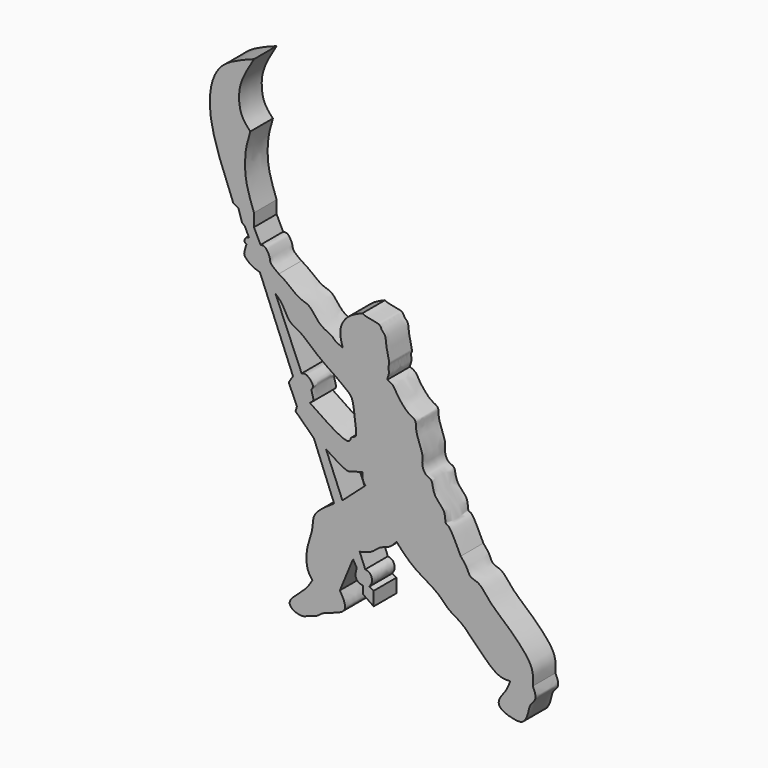
from build123d import *

# Parameters (mm, degrees)
F1_DEPTH = 5


with BuildPart() as f1:
    # F0 (on Front) → F1 (new body)
    with BuildSketch(Plane.XZ):
        with BuildLine():
            Line((-24.1203103215, 21.9759829342), (-18.2807520032, 7.7274609357))
            Line((-18.2807520032, 7.7274609357), (-19.0381482244, 6.5127937123))
            Line((-19.0381482244, 6.5127937123), (-17.5798162818, 3.2489048317))
            Line((-17.5798162818, 3.2489048317), (-17.8294554353, 2.4170875549))
            Line((-17.8294554353, 2.4170875549), (-14.5885488018, -0.7256102399))
            Line((-14.5885488018, -0.7256102399), (-11.0132619739, -9.7218751907))
            add(Edge.make_bspline(
                [(-14.8673709482, -22.9064188898), (-15.150503075, -22.5427997144), (-15.8470702017, -21.6482167965), (-16.0944275733, -18.3729851975), (-14.611248973, -14.9338812026), (-14.965218938, -12.3460222686), (-12.4732507013, -10.6913253107), (-11.0132619739, -9.7218751907)],
                knots=[0, 0, 0, 0, 0.1422585094, 0.3499871324, 0.5760143286, 0.7515962316, 1, 1, 1, 1], degree=3))
            add(Edge.make_bspline(
                [(-9.9995490164, -22.9064188898), (-9.7311698044, -23.3544053065), (-9.2008802496, -24.2395801149), (-8.721652925, -26.3078463525), (-13.0513683166, -27.1215222713), (-13.8873228264, -28.2920015259), (-15.5244092029, -28.5579918803), (-16.5965096871, -29.3062341732), (-18.7291618658, -28.5971203006), (-19.1531356958, -27.1279524612), (-16.074988322, -24.9749843607), (-15.2466632037, -23.5561204262), (-14.8673709482, -22.9064188898)],
                knots=[0, 0, 0, 0, 0.0909012889, 0.1796115417, 0.3202441767, 0.4076140482, 0.4950865817, 0.5769096526, 0.6780741152, 0.7527527486, 0.8867848317, 1, 1, 1, 1], degree=3))
            Line((-9.9995490164, -22.9064188898), (-7.67316157, -17.2814186662))
            Line((-7.67316157, -17.2814186662), (-7.0134392008, -18.4272509068))
            add(Edge.make_bspline(
                [(-5.8844918385, -20.8578072488), (-6.2221164567, -20.7778068892), (-6.8772443457, -20.6225739355), (-7.3697973958, -19.7279994004), (-7.140388356, -18.8906299585), (-7.0134392008, -18.4272509068)],
                knots=[0, 0, 0, 0, 0.322001538, 0.6248128143, 1, 1, 1, 1], degree=3))
            Line((-5.8844918385, -20.8578072488), (-5.8844918385, -22.1791490912))
            Line((-5.8844918385, -22.1791490912), (-4.0263566189, -23.4591979533))
            Line((-4.0263566189, -23.4591979533), (-4.0263566189, -21.0229754448))
            Line((-4.0263566189, -21.0229754448), (-4.7696107067, -20.6100549549))
            add(Edge.make_bspline(
                [(-5.5128643289, -18.1738324463), (-5.2118365762, -18.2470956076), (-4.5736425311, -18.402417211), (-4.1320337416, -19.673755952), (-4.5585525415, -20.3001103357), (-4.7696107067, -20.6100549549)],
                knots=[0, 0, 0, 0, 0.3108278188, 0.6589706806, 1, 1, 1, 1], degree=3))
            Line((-5.5128643289, -18.1738324463), (-6.5038711764, -15.7376099378))
            add(Edge.make_bspline(
                [(0, -12.0722856373), (-0.3762851457, -12.527865535), (-1.1324026488, -13.443320048), (-2.9946780198, -13.7360672192), (-4.2626082372, -15.2470570007), (-5.7328675082, -15.5688577101), (-6.5038711764, -15.7376099378)],
                knots=[0, 0, 0, 0, 0.2384306792, 0.4791090266, 0.7268448775, 1, 1, 1, 1], degree=3))
            add(Edge.make_bspline(
                [(20.0911592692, -27.2437538952), (19.321275811, -27.2753298207), (17.2032302757, -27.3621991351), (11.9948695923, -20.8569828754), (9.316423189, -19.978629408), (7.2826347876, -17.361768118), (3.0825776353, -15.4291307313), (1.0274658835, -13.191168669), (0, -12.0722856373)],
                knots=[0, 0, 0, 0, 0.1325583198, 0.3646844914, 0.504303567, 0.6475314744, 0.8237811716, 1, 1, 1, 1], degree=3))
            add(Edge.make_bspline(
                [(24.1043716669, -26.7054680735), (24.3944195035, -27.3526209354), (24.9444184739, -28.57977509), (23.4922734831, -29.7152754997), (23.3899425635, -30.9353527133), (22.6751313312, -32.9007931078), (21.2165503707, -33.1401768255), (18.1568122428, -32.2974393289), (17.9119695724, -30.6381992508), (19.455324375, -29.018187808), (19.8830334531, -27.8245737111), (20.0911592692, -27.2437538952)],
                knots=[0, 0, 0, 0, 0.1147391171, 0.2175723736, 0.3114734744, 0.4260252646, 0.523894325, 0.6676526347, 0.7622338018, 0.8843015345, 1, 1, 1, 1], degree=3))
            add(Edge.make_bspline(
                [(11.3523667678, -10.6432521716), (11.7514697639, -11.1046119855), (12.4997618891, -11.9696315896), (12.9218293624, -13.4925658453), (14.6996652539, -13.5900277659), (16.3053745662, -15.9529726334), (18.4397537053, -17.7958028806), (24.370816881, -23.0379418617), (24.1806903996, -25.6549671158), (24.1043716669, -26.7054680735)],
                knots=[0, 0, 0, 0, 0.1143584279, 0.2144146044, 0.3191821603, 0.4565158707, 0.6079616273, 0.8426317494, 1, 1, 1, 1], degree=3))
            add(Edge.make_bspline(
                [(-1.6017466551, 12.5935450196), (-1.2456084574, 12.4368040179), (-0.5314168268, 12.1224790947), (-0.0136702876, 11.0243846739), (0.7944326824, 9.8989854866), (2.0839663571, 8.4618082396), (3.5516730938, 7.9934188466), (3.2929209655, 6.5940518744), (4.1775071465, 4.0367650179), (4.6996992608, 2.9047768523), (4.409158131, 1.4459573258), (5.0917023531, -0.1952574089), (6.4735282194, -0.2941124951), (6.3372274844, -2.7945419428), (8.7814949075, -4.3909266859), (8.5422814117, -6.3269932907), (8.9481099601, -6.5955661599), (9.4429596132, -6.6294544001), (10.5118738661, -8.8764375203), (11.3523667678, -10.6432521716)],
                knots=[0, 0, 0, 0, 0.0509372669, 0.1021484636, 0.1592469829, 0.2263722025, 0.2807239402, 0.3334866348, 0.4124220464, 0.4661579368, 0.523405589, 0.5839663177, 0.6326570464, 0.7013792386, 0.7812432877, 0.8428316308, 0.8711099039, 0.8986530392, 1, 1, 1, 1], degree=3))
            add(Edge.make_bspline(
                [(-6.0174730606, 21.505381912), (-5.921444452, 21.4471480873), (-5.6920542665, 21.3080409188), (-5.0728437511, 21.1257552601), (-3.4567198189, 20.847595573), (-2.9658363095, 20.7219279285), (-2.6881267228, 20.2613657998), (-2.6693372569, 20.0771813711), (-2.2577028465, 19.6607437685), (-1.8746838477, 19.2204714186), (-1.8260287535, 17.9007256306), (-1.6928445131, 17.3903408715), (-1.2787171843, 15.49115093), (-1.2525755879, 14.9911130424), (-1.5307336501, 14.7025467937), (-1.1859828189, 13.7227253988), (-1.6086289503, 12.8698182678), (-1.6034944026, 12.663704156), (-1.6017466551, 12.5935450196)],
                knots=[0, 0, 0, 0, 0.0452787625, 0.1081605147, 0.2066664544, 0.2621788489, 0.3144051851, 0.3476208609, 0.4034976597, 0.4638101359, 0.5482376432, 0.6103455676, 0.7161284825, 0.7694690602, 0.8120141734, 0.8879041048, 0.9618437034, 1, 1, 1, 1], degree=3))
            add(Edge.make_bspline(
                [(-9.4929598272, 14.9880722165), (-9.6039744984, 15.368405825), (-9.8487533593, 16.2070123475), (-10.0595668465, 18.0840131598), (-8.7334216813, 20.3505181606), (-6.9509660602, 21.1084461161), (-6.0174730606, 21.505381912)],
                knots=[0, 0, 0, 0, 0.1945809773, 0.4290361755, 0.7009795212, 1, 1, 1, 1], degree=3))
            add(Edge.make_bspline(
                [(-20.783405751, 22.8254627436), (-20.3795782717, 22.5942336502), (-19.4210097379, 22.0453632923), (-17.1330480401, 19.9825899517), (-15.2341225973, 19.8981284661), (-13.6911194673, 17.0150264), (-11.3267169786, 16.3534703795), (-11.0392157787, 15.6864972266), (-10.0849771891, 15.2554792596), (-9.4929598272, 14.9880722165)],
                knots=[0, 0, 0, 0, 0.1301614159, 0.3089651992, 0.4467185212, 0.6283052914, 0.7837589095, 0.8658422733, 1, 1, 1, 1], degree=3))
            add(Edge.make_bspline(
                [(-24.0173917264, 26.2967646122), (-23.8165610801, 26.3188140679), (-23.4070619719, 26.3637735033), (-22.8808236782, 25.9648114967), (-22.3110527481, 24.7626240677), (-22.3622165111, 24.1445716194), (-21.7336204047, 23.5040464564), (-21.1206772524, 23.0663208979), (-20.783405751, 22.8254627436)],
                knots=[0, 0, 0, 0, 0.1392290077, 0.2838917045, 0.4923127741, 0.6337603105, 0.7984768906, 1, 1, 1, 1], degree=3))
            Line((-24.0173917264, 26.2967646122), (-25.177501142, 28.653787449))
            Line((-25.177501142, 28.653787449), (-25.177501142, 30.9126004577))
            add(Edge.make_bspline(
                [(-25.8315913379, 43.334569782), (-26.1297475665, 42.3404668476), (-26.7783317439, 40.1779782861), (-26.8927100798, 35.5948351284), (-25.7602045722, 32.5032837521), (-25.177501142, 30.9126004577)],
                knots=[0, 0, 0, 0, 0.2923150441, 0.6358777519, 1, 1, 1, 1], degree=3))
            add(Edge.make_bspline(
                [(-25.177501142, 54.803494364), (-25.9943046327, 53.4528538991), (-27.4662578836, 51.0188784744), (-27.9661528337, 48.1558449824), (-27.5247460752, 45.155678778), (-26.380214446, 43.9246531663), (-25.8315913379, 43.334569782)],
                knots=[0, 0, 0, 0, 0.2991661188, 0.5391242154, 0.7790824658, 1, 1, 1, 1], degree=3))
            add(Edge.make_bspline(
                [(-28.8502722979, 31.2726534903), (-30.3089187129, 34.8864062688), (-32.8574432709, 41.2002994836), (-33.2169781008, 47.5098640935), (-31.3421809454, 52.5154550165), (-27.3337143695, 54.0032093754), (-25.177501142, 54.803494364)],
                knots=[0, 0, 0, 0, 0.315569116, 0.5513575008, 0.7586685899, 1, 1, 1, 1], degree=3))
            Line((-28.8502722979, 31.2726534903), (-27.9418490827, 30.7565052062))
            Line((-27.9418490827, 30.7565052062), (-27.2811781615, 28.6919102073))
            Line((-27.2811781615, 28.6919102073), (-26.78517811, 28.2766725868))
            Line((-26.78517811, 28.2766725868), (-26.0486099869, 26.7298761755))
            add(Edge.make_bspline(
                [(-26.5151038766, 25.5513638258), (-26.677683647, 25.667760503), (-27.0313216768, 25.9209426272), (-26.5621500592, 26.7453926001), (-26.2065467572, 26.734648177), (-26.0486099869, 26.7298761755)],
                knots=[0, 0, 0, 0, 0.3211168402, 0.6984825139, 1, 1, 1, 1], degree=3))
            add(Edge.make_bspline(
                [(-24.1203103215, 21.9759829342), (-24.5450487666, 22.1067624073), (-25.4502525783, 22.3854800011), (-27.0911825619, 23.6275393306), (-26.7788465461, 24.6254739452), (-26.604366599, 25.2379998503), (-26.5151038766, 25.5513638258)],
                knots=[0, 0, 0, 0, 0.2676443801, 0.5704044826, 0.7802219334, 1, 1, 1, 1], degree=3))
        make_face()
        with BuildLine():
            Line((-9.5487572253, -8.7588606402), (-12.4459303916, -1.7368972767))
            add(Edge.make_bspline(
                [(-5.9641185217, -3.1609316356), (-6.7483118871, -3.4168660709), (-8.0201341368, -3.8319462329), (-8.9626661784, -3.9702202762), (-11.0237717276, -2.648725797), (-12.4459303916, -1.7368972767)],
                knots=[0, 0, 0, 0, 0.3326829209, 0.5395525639, 1, 1, 1, 1], degree=3))
            add(Edge.make_bspline(
                [(-5.4730712436, -5.1251174882), (-5.650208237, -4.9206723695), (-6.0488261024, -4.4606020294), (-5.9943735564, -3.6251353419), (-5.9641185217, -3.1609316356)],
                knots=[0, 0, 0, 0, 0.4443779589, 1, 1, 1, 1], degree=3))
            Line((-5.4730712436, -5.1251174882), (-9.5487572253, -8.7588606402))
        make_face(mode=Mode.SUBTRACT)
        with BuildLine():
            Line((-16.7567338794, 8.6515760049), (-21.3725715876, 19.5528063923))
            add(Edge.make_bspline(
                [(-21.3725715876, 19.5528063923), (-20.9376231067, 19.1687982853), (-20.0013868787, 18.342212339), (-19.1214730379, 15.8597176761), (-16.8624814373, 15.1251467021), (-13.9740319476, 12.3167852096), (-11.6525146896, 10.7859321175), (-8.302155863, 8.4459969838), (-7.5962628143, 7.3029960541), (-7.107115422, 2.9286879768), (-7.0780369077, 1.8445452888), (-8.107070285, 1.6506224339), (-8.1052869073, 0.8630283372), (-9.4440869979, 0.552940189), (-12.8167737096, 2.8570738758), (-15.3326997533, 4.5758904889)],
                knots=[0, 0, 0, 0, 0.0685024261, 0.1474529878, 0.2243144418, 0.3246064362, 0.4142458094, 0.5134688972, 0.5753392138, 0.6811687833, 0.7306968875, 0.7760434669, 0.815297938, 0.8622176419, 1, 1, 1, 1], degree=3))
            add(Edge.make_bspline(
                [(-15.3326997533, 4.5758904889), (-15.0321991015, 4.7343390026), (-14.3440525874, 5.0971861103), (-15.2898778477, 6.7620498269), (-14.3847296742, 7.2212193174), (-15.777884216, 8.9499581442), (-16.4661877247, 8.7401430101), (-16.7567338794, 8.6515760049)],
                knots=[0, 0, 0, 0, 0.1805312828, 0.4134166504, 0.5652247313, 0.8164729935, 1, 1, 1, 1], degree=3))
        make_face(mode=Mode.SUBTRACT)
    extrude(amount=F1_DEPTH)


solid = f1.part
